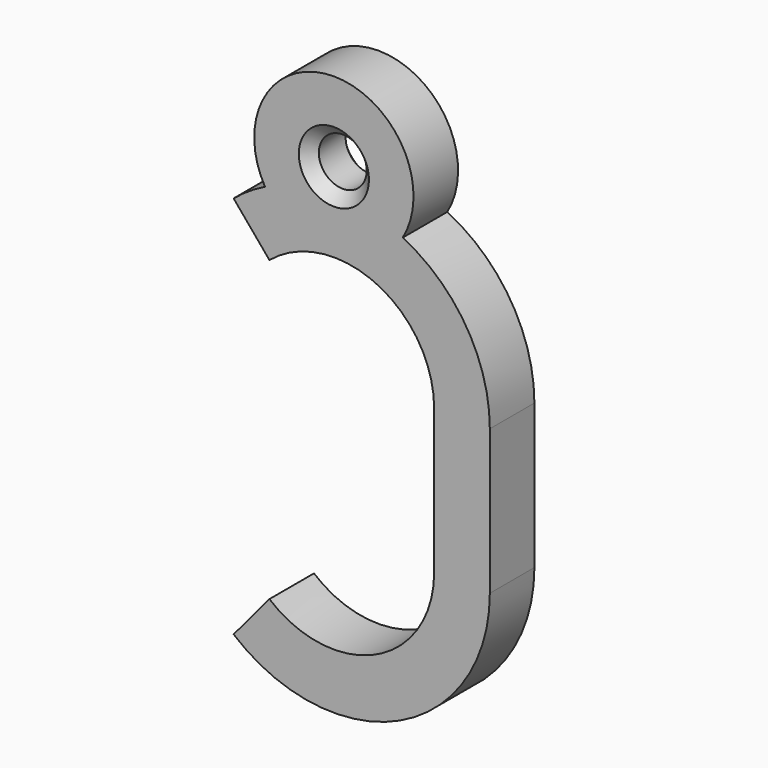
from build123d import *

# Parameters (mm, degrees)
F1_DEPTH = 2.5
F3_DEPTH = 5.001
F4_R     = 7.148228
F4_R_2   = 2.148228
F5_DEPTH = 5
F6_SIZE  = 1


with BuildPart() as f1:
    # F0 (on Front) → F1 (new body, symmetric)
    with BuildSketch(Plane.XZ):
        with BuildLine():
            Line((14, -6.5), (14, 6.5))
            ThreePointArc((14, 6.5), (0, 20.5), (-14, 6.5))
            Line((-14, 6.5), (-14, -6.5))
            ThreePointArc((-14, -6.5), (0, -20.5), (14, -6.5))
        make_face()
        with BuildLine():
            Line((9, 6.5), (9, -6.5))
            ThreePointArc((9, -6.5), (0, -15.5), (-9, -6.5))
            Line((-9, -6.5), (-9, 6.5))
            ThreePointArc((-9, 6.5), (0, 15.5), (9, 6.5))
        make_face(mode=Mode.SUBTRACT)
    extrude(amount=F1_DEPTH, both=True)

    # F2 (on face) → F3 (cut, through all)
    with BuildSketch(Plane.XZ.offset(2.5)):
        with BuildLine():
            Line((-5.785714, 13.393875), (-9, 17.223805))
            ThreePointArc((-9, 17.223805), (-12.688578, 12.41608), (-14, 6.5))
            Line((-14, 6.5), (-14, -6.5))
            ThreePointArc((-14, -6.5), (-12.688578, -12.41608), (-9, -17.223805))
            Line((-9, -17.223805), (-5.785714, -13.393875))
            ThreePointArc((-5.785714, -13.393875), (-8.156943, -10.303194), (-9, -6.5))
            Line((-9, -6.5), (-9, 6.5))
            ThreePointArc((-9, 6.5), (-8.156943, 10.303194), (-5.785714, 13.393875))
        make_face()
    extrude(amount=-F3_DEPTH, mode=Mode.SUBTRACT)

    # F4 (on face) → F5 (join, through all)
    with BuildSketch(Plane.XZ.offset(2.5)):
        with Locations((0, 22.648228)):
            Circle(F4_R)
        with Locations((0, 22.648228)):
            Circle(F4_R_2, mode=Mode.SUBTRACT)
    extrude(amount=-F5_DEPTH)

    # F6
    f6_edges = [f1.edges().sort_by_distance(p)[0] for p in [
        (2.148228, 0, 22.648228),
        (-2.148228, -2.5, 22.648228),
        (-2.148228, 2.5, 22.648228),
    ]]
    chamfer(f6_edges, length=F6_SIZE)


solid = f1.part
